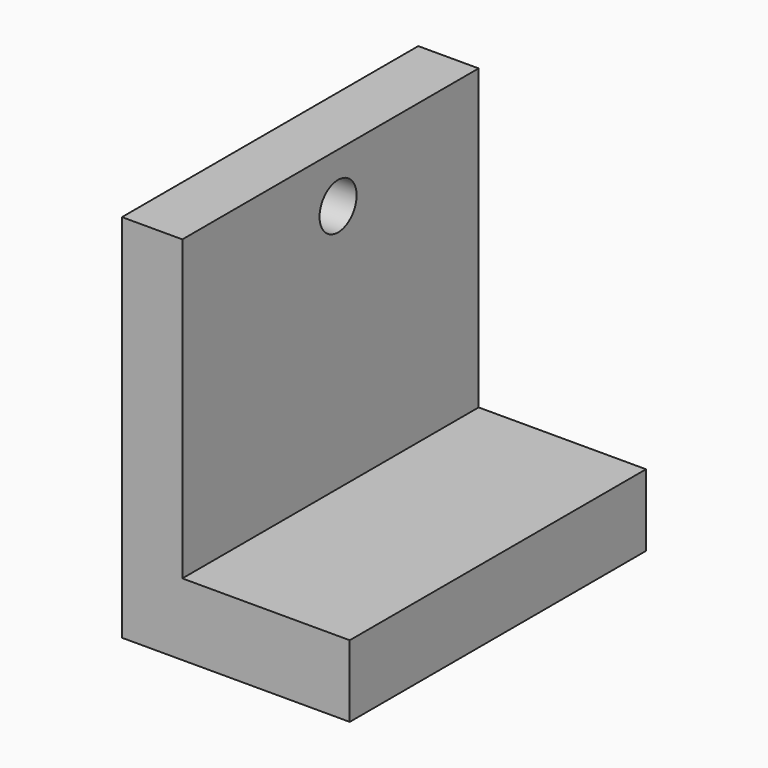
from build123d import *

# Parameters (mm, degrees)
F0_W     = 25.4
F0_H     = 25.4
F1_DEPTH = 25.4
F2_W     = 5.039918
F2_H     = 25.4
F3_DEPTH = 38.1
F4_R     = 1.5875
F5_DEPTH = 12.7


with BuildPart() as f1:
    # F0 (on Front) → F1 (new body)
    with BuildSketch(Plane.XZ):
        with Locations((12.7, 12.7)):
            Rectangle(F0_W, F0_H)
    extrude(amount=F1_DEPTH)

    # F2 (on face) → F3 (cut)
    with BuildSketch(Plane.XZ.offset(25.4)):
        Polygon((25.4, 25.4), (9.180619, 25.4), (9.180619, 4.931298), (20.66166, 4.931298), (20.66166, 0), (25.4, 0), align=None)
        with Locations((2.519959, 12.7)):
            Rectangle(F2_W, F2_H)
    extrude(amount=-F3_DEPTH, mode=Mode.SUBTRACT)

    # F4 (on face) → F5 (cut)
    with BuildSketch(Plane(origin=(5.039918, 0, 0), x_dir=(0, -1, 0), z_dir=(-1, 0, 0))):
        with Locations((12.050226, 21.982256)):
            Circle(F4_R)
    extrude(amount=-F5_DEPTH, mode=Mode.SUBTRACT)


solid = f1.part
